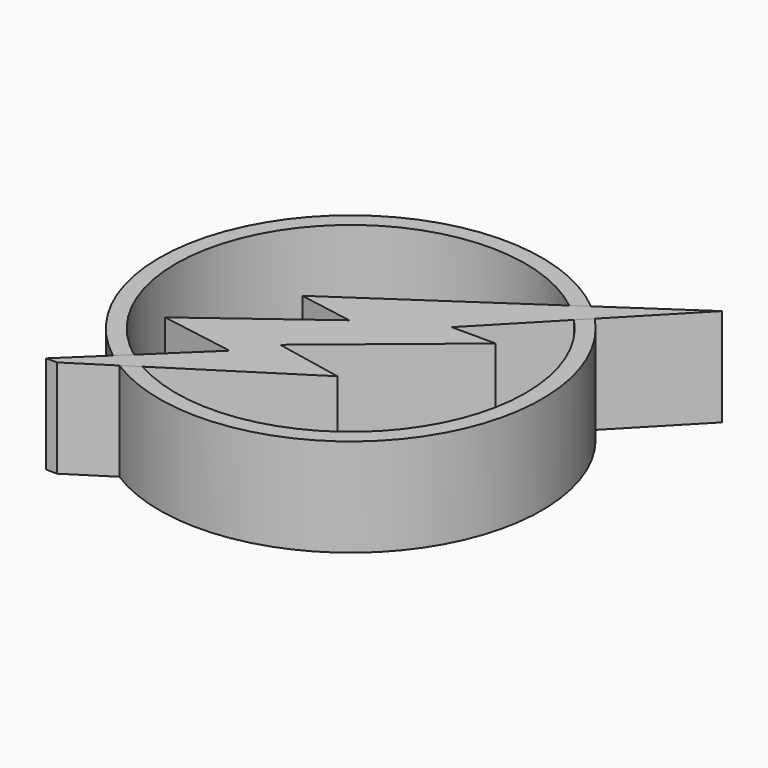
from build123d import *

# Parameters (mm, degrees)
F1_DEPTH = 20
F2_DEPTH = 20


with BuildPart() as f1:
    # F0 (on Top) → F1 (new body)
    with BuildSketch(Plane.XY):
        with BuildLine():
            ThreePointArc((-21.302294, -28.664973), (-28.295787, 21.790294), (22.271896, 27.918293))
            Line((22.271896, 27.918293), (25.145634, 29.867251))
            ThreePointArc((25.145634, 29.867251), (-30.441681, 24.447078), (-23.735405, -30.999777))
            Line((-23.735405, -30.999777), (-21.302294, -28.664973))
        make_face()
        with BuildLine():
            ThreePointArc((-20.798702, -33.041936), (30.213114, -24.728998), (28.278882, 26.919518))
            Line((28.278882, 26.919518), (25.963903, 24.52232))
            ThreePointArc((25.963903, 24.52232), (28.089515, -22.055557), (-17.663031, -31.040067))
            Line((-17.663031, -31.040067), (-20.798702, -33.041936))
        make_face()
    extrude(amount=F1_DEPTH)


with BuildPart() as f2:
    # F0 (on Top) → F2 (new body)
    with BuildSketch(Plane.XY):
        Polygon((25.145634, 29.867251), (22.271896, 27.918293), (-13.056217, 3.9589), (-1.928498, 2.032948), (-25.467901, -15.514607), (-10.274287, -18.08254), (-21.302294, -28.664973), (-23.735405, -30.999777), (-31.459749, -38.412027), (-29.21026, -38.412027), (-20.798702, -33.041936), (-17.663031, -31.040067), (8.666782, -14.230639), (-5.242868, -11.44871), (21.292834, 10.378377), (12.305062, 10.378377), (25.963903, 24.52232), (28.278882, 26.919518), (42.475397, 41.620232), align=None)
    extrude(amount=F2_DEPTH)


solid = Compound([f1.part, f2.part])
